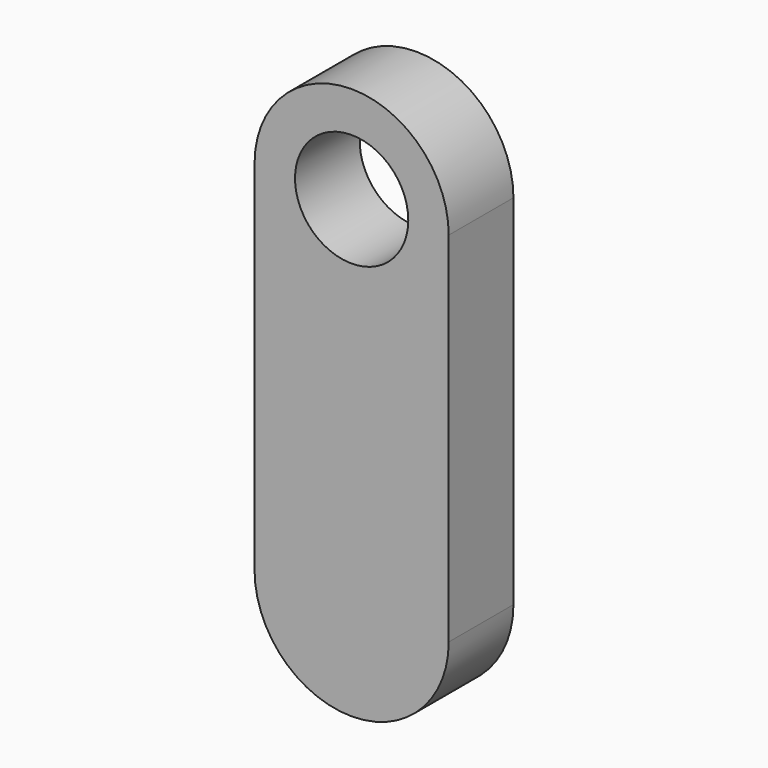
from build123d import *

# Parameters (mm, degrees)
F0_R     = 3.5
F1_DEPTH = 5


with BuildPart() as f1:
    # F0 (on Front) → F1 (new body)
    with BuildSketch(Plane.XZ):
        with BuildLine():
            Line((6, -22.136811), (6, 0))
            ThreePointArc((6, 0), (0, 6), (-6, 0))
            Line((-6, 0), (-6, -22.136811))
            ThreePointArc((-6, -22.136811), (0, -28.136811), (6, -22.136811))
        make_face()
        Circle(F0_R, mode=Mode.SUBTRACT)
    extrude(amount=F1_DEPTH)


solid = f1.part
